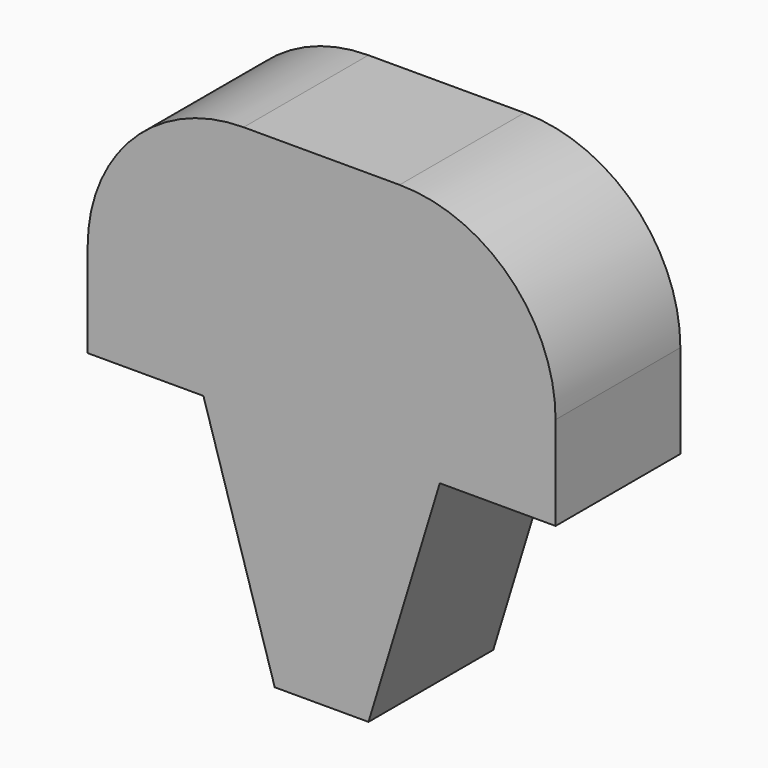
from build123d import *

# Parameters (mm, degrees)
F1_DEPTH      = 12.7
F1_DEPTH_BACK = 12.7


with BuildPart() as f1:
    # F0 (on Front) → F1 (new body, two sides)
    with BuildSketch(Plane.XZ) as f1_sk:
        with BuildLine():
            Line((12.7, 34.4253193842), (0, 34.4253193842))
            Line((0, 34.4253193842), (0, -5.8595561422))
            Line((0, -5.8595561422), (0, -6.2146806158))
            Line((0, -6.2146806158), (19.245794032, -6.2146806158))
            Line((19.245794032, -6.2146806158), (38.1, -6.2146806158))
            Line((38.1, -6.2146806158), (38.1, 9.0253193842))
            ThreePointArc((38.1, 9.0253193842), (30.6605122421, 26.9858316263), (12.7, 34.4253193842))
        make_face()
        with BuildLine():
            Line((0, -5.8595561422), (0, 34.4253193842))
            Line((0, 34.4253193842), (-12.7, 34.4253193842))
            ThreePointArc((-12.7, 34.4253193842), (-30.6605122421, 26.9858316263), (-38.1, 9.0253193842))
            Line((-38.1, 9.0253193842), (-38.1, -6.2146806158))
            Line((-38.1, -6.2146806158), (-19.245794032, -6.2146806158))
            Line((-19.245794032, -6.2146806158), (0, -5.8595561422))
        make_face()
        Polygon((0, -6.2146806158), (0, -5.8595561422), (-19.245794032, -6.2146806158), align=None)
        Polygon((19.245794032, -6.2146806158), (0, -6.2146806158), (-19.245794032, -6.2146806158), (-7.6351859607, -44.2130304873), (7.6351859607, -44.2130304873), align=None)
    extrude(amount=F1_DEPTH)
    extrude(f1_sk.sketch, amount=-F1_DEPTH_BACK)


solid = f1.part
